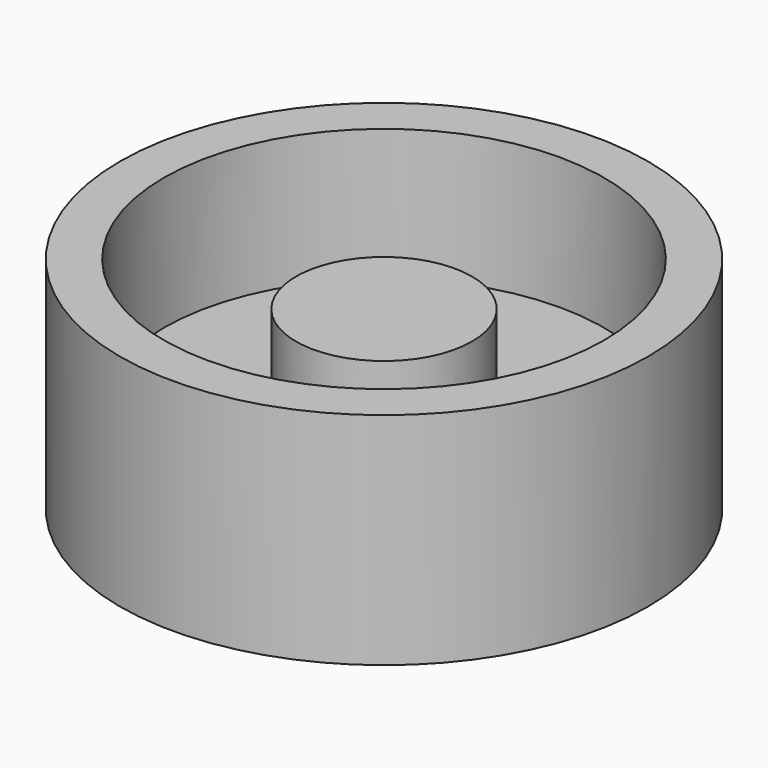
from build123d import *

# Parameters (mm, degrees)
F0_R     = 30
F0_R_2   = 25
F1_DEPTH = 25
F2_R     = 25
F2_R_2   = 10
F3_DEPTH = 10
F4_DEPTH = 20


with BuildPart() as f1:
    # F0 (on Top) → F1 (new body)
    with BuildSketch(Plane.XY):
        Circle(F0_R)
        Circle(F0_R_2, mode=Mode.SUBTRACT)
    extrude(amount=F1_DEPTH)

    # F2 (on Top) → F3 (join)
    with BuildSketch(Plane.XY):
        Circle(F2_R)
        Circle(F2_R_2, mode=Mode.SUBTRACT)
    extrude(amount=F3_DEPTH)

    # F2 (on Top) → F4 (join)
    with BuildSketch(Plane.XY):
        Circle(F2_R_2)
    extrude(amount=F4_DEPTH)


solid = f1.part
